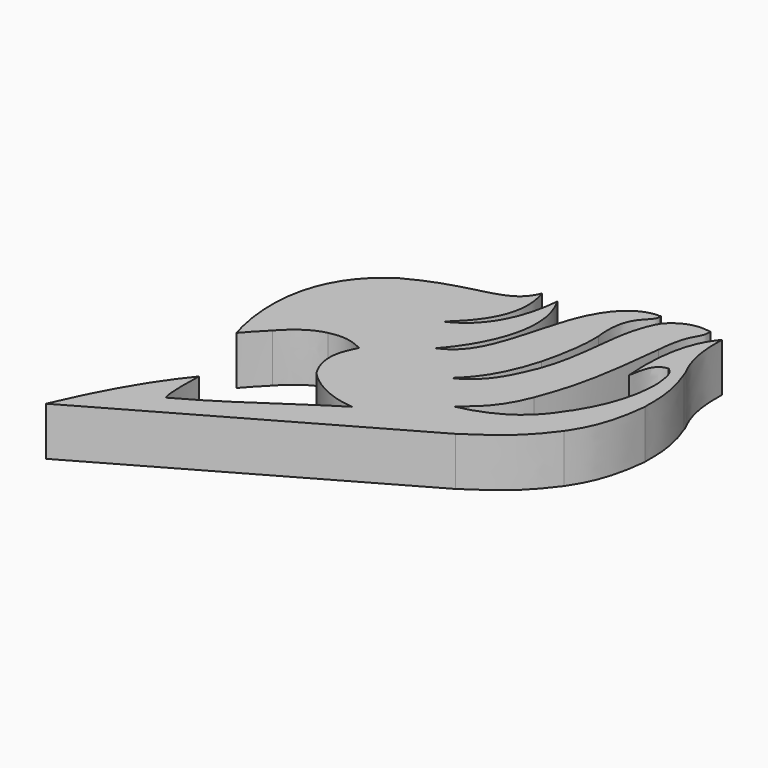
from build123d import *

# Parameters (mm, degrees)
F1_DEPTH = 10


with BuildPart() as f1:
    # F0 (on Top) → F1 (new body)
    with BuildSketch(Plane.XY):
        with BuildLine():
            add(Edge.make_bspline(
                [(58.1812933087, 85.6097638607), (58.1841250991, 85.5931268886), (58.1867527565, 85.5766102474), (58.1891789105, 85.5602109613)],
                knots=[0, 0, 0, 0, 0.0742411452, 0.0742411452, 0.0742411452, 0.0742411452], degree=3))
            add(Edge.make_bspline(
                [(58.18917891, 85.5602109561), (58.2536253791, 85.5619678043), (58.2542100908, 85.5733054697), (58.1812933087, 85.6097638607)],
                knots=[16.3065114736, 16.3065114736, 16.3065114736, 16.3065114736, 17.90581899, 17.90581899, 17.90581899, 17.90581899], degree=3))
        make_face()
    extrude(amount=F1_DEPTH)


with BuildPart() as f1b:
    # F0 (on Top) → F1, piece 2 (new body)
    with BuildSketch(Plane.XY):
        with BuildLine():
            add(Edge.make_bspline(
                [(8.5230357945, 38.3988320827), (8.3760647103, 38.8663448393), (1.192909549, 59.588778764), (17.0468091965, 69.6442350745)],
                knots=[0, 0, 0, 0, 32.3871876075, 32.3871876075, 32.3871876075, 32.3871876075], degree=3))
            add(Edge.make_bspline(
                [(12.5055862591, 42.6780767739), (11.1939450726, 41.3559849064), (9.5115192235, 39.6344363689), (8.5230357945, 38.3988320827)],
                knots=[0, 0, 0, 0, 5.845737193, 5.845737193, 5.845737193, 5.845737193], degree=3))
            add(Edge.make_bspline(
                [(20.0279317796, 47.6346611977), (16.6162457317, 46.8627214432), (14.1450371593, 44.4532930851), (12.5055862591, 42.6780767739)],
                knots=[0, 0, 0, 0, 9.0085188172, 9.0085188172, 9.0085188172, 9.0085188172], degree=3))
            add(Edge.make_bspline(
                [(27.1397791803, 46.655099839), (23.3502890915, 48.7161278725), (20.6937398762, 47.6658642292), (20.0279317796, 47.6346611977)],
                knots=[0, 0, 0, 0, 7.1789911482, 7.1789911482, 7.1789911482, 7.1789911482], degree=3))
            add(Edge.make_bspline(
                [(27.0342063159, 35.9573215246), (23.5974099487, 41.7967438698), (27.1397791803, 45.8742380142), (27.1397791803, 46.655099839)],
                knots=[0, 0, 0, 0, 10.6982992337, 10.6982992337, 10.6982992337, 10.6982992337], degree=3))
            add(Edge.make_bspline(
                [(39.1431711614, 29.9355648458), (31.8141803145, 30.4291844368), (27.242442593, 35.3098213673), (27.0342063159, 35.9573215246)],
                knots=[0, 0, 0, 0, 13.5236305454, 13.5236305454, 13.5236305454, 13.5236305454], degree=3))
            add(Edge.make_bspline(
                [(13.74707371, 13.703007251), (22.9178294539, 18.6291635036), (30.6403562427, 24.683624506), (39.1431711614, 29.9355648458)],
                knots=[0, 0, 0, 0, 30.1406319083, 30.1406319083, 30.1406319083, 30.1406319083], degree=3))
            add(Edge.make_bspline(
                [(13.2888965309, 22.8010956198), (13.0947744474, 17.5788998604), (13.218334876, 14.7370090708), (13.74707371, 13.703007251)],
                knots=[0, 0, 0, 0, 9.1096179005, 9.1096179005, 9.1096179005, 9.1096179005], degree=3))
            add(Edge.make_bspline(
                [(0, 0), (4.6926648356, 10.9066357836), (9.1408407316, 17.7642405033), (13.2888965309, 22.8010956198)],
                knots=[0, 0, 0, 0, 26.390997186, 26.390997186, 26.390997186, 26.390997186], degree=3))
            add(Edge.make_bspline(
                [(57.9938851297, 32.9464413226), (38.6625900865, 21.964294215), (19.3312950432, 10.9821471075), (0, 0)],
                knots=[0, 0, 0, 0, 66.6990157968, 66.6990157968, 66.6990157968, 66.6990157968], degree=3))
            add(Edge.make_bspline(
                [(71.0192099214, 44.6626804769), (65.7932981849, 37.4721288681), (61.5304671228, 35.5569422245), (57.9938851297, 32.9464413226)],
                knots=[0, 0, 0, 0, 17.5193991293, 17.5193991293, 17.5193991293, 17.5193991293], degree=3))
            add(Edge.make_bspline(
                [(75.9282484651, 59.3243427575), (74.9585479498, 49.9088577926), (72.1595361829, 46.5850308537), (71.0192099214, 44.6626804769)],
                knots=[0, 0, 0, 0, 15.4616622733, 15.4616622733, 15.4616622733, 15.4616622733], degree=3))
            add(Edge.make_bspline(
                [(73.7682729959, 72.1533000469), (76.5913054347, 65.0701671839), (75.7166147232, 60.6384053826), (75.9282484651, 59.3243427575)],
                knots=[0, 0, 0, 0, 13.0095210966, 13.0095210966, 13.0095210966, 13.0095210966], degree=3))
            add(Edge.make_bspline(
                [(71.0192099214, 85.3095278144), (70.6434100866, 76.3245373964), (73.7682729959, 73.0007141829), (73.7682729959, 72.1533000469)],
                knots=[0, 0, 0, 0, 13.4403748779, 13.4403748779, 13.4403748779, 13.4403748779], degree=3))
            add(Edge.make_bspline(
                [(67.0265257359, 66.3933604956), (65.9783929586, 79.5900523663), (69.8853433132, 83.8468819857), (71.0192099214, 85.3095278144)],
                knots=[0, 0, 0, 0, 19.3329488966, 19.3329488966, 19.3329488966, 19.3329488966], degree=3))
            add(Edge.make_bspline(
                [(70.5610364676, 72.1533000469), (67.3779025674, 71.8927681446), (67.4945265055, 67.6359385252), (67.0265257359, 66.3933604956)],
                knots=[0, 0, 0, 0, 6.7579338372, 6.7579338372, 6.7579338372, 6.7579338372], degree=3))
            add(Edge.make_bspline(
                [(72.4591985345, 67.2442615032), (72.1012353897, 70.901453495), (71.4597925544, 71.484580636), (70.5610364676, 72.1533000469)],
                knots=[0, 0, 0, 0, 5.2632384191, 5.2632384191, 5.2632384191, 5.2632384191], degree=3))
            add(Edge.make_bspline(
                [(67.6810666919, 51.2080676854), (72.9759261012, 59.530466795), (72.451107204, 66.119812429), (72.4591985345, 67.2442615032)],
                knots=[0, 0, 0, 0, 16.7329033963, 16.7329033963, 16.7329033963, 16.7329033963], degree=3))
            add(Edge.make_bspline(
                [(51.7757683992, 40.2118265629), (64.0540644526, 42.7363924682), (66.5615200996, 50.3170527518), (67.6810666919, 51.2080676854)],
                knots=[0, 0, 0, 0, 19.3363862343, 19.3363862343, 19.3363862343, 19.3363862343], degree=3))
            add(Edge.make_bspline(
                [(59.9251538515, 50.7499016821), (57.4048087001, 44.2045032978), (53.9357513189, 42.0445278287), (51.7757683992, 40.2118265629)],
                knots=[0, 0, 0, 0, 13.3215430964, 13.3215430964, 13.3215430964, 13.3215430964], degree=3))
            add(Edge.make_bspline(
                [(65.1764720678, 76.2328207493), (63.4920150042, 60.1752474904), (62.0520301163, 56.6407367587), (59.9251538515, 50.7499016821)],
                knots=[0, 0, 0, 0, 26.0183686497, 26.0183686497, 26.0183686497, 26.0183686497], degree=3))
            add(Edge.make_bspline(
                [(67.7712410688, 86.3647758961), (68.0737867951, 83.4113657475), (65.8483505249, 84.4586268067), (65.1764720678, 76.2328207493)],
                knots=[0, 0, 0, 0, 10.4589359528, 10.4589359528, 10.4589359528, 10.4589359528], degree=3))
            add(Edge.make_bspline(
                [(59.9251538515, 83.7700068951), (63.3611083031, 87.3385965824), (66.6992515326, 86.4877030253), (67.7712410688, 86.3647758961)],
                knots=[0, 0, 0, 0, 8.2640129955, 8.2640129955, 8.2640129955, 8.2640129955], degree=3))
            add(Edge.make_bspline(
                [(54.2313084006, 59.0591914952), (57.7320754528, 68.4224367142), (55.8339133859, 76.9968926907), (59.9251538515, 83.7700068951)],
                knots=[0, 0, 0, 0, 25.3583176442, 25.3583176442, 25.3583176442, 25.3583176442], degree=3))
            add(Edge.make_bspline(
                [(45.1192297041, 47.5898385048), (50.8594214916, 50.2262599766), (52.6266731322, 55.4625689983), (54.2313084006, 59.0591914952)],
                knots=[0, 0, 0, 0, 14.6484141186, 14.6484141186, 14.6484141186, 14.6484141186], degree=3))
            add(Edge.make_bspline(
                [(53.0497655272, 61.2933374941), (50.6006330252, 52.6047423482), (47.0435544848, 49.3392273784), (45.1192297041, 47.5898385048)],
                knots=[0, 0, 0, 0, 15.8328545434, 15.8328545434, 15.8328545434, 15.8328545434], degree=3))
            add(Edge.make_bspline(
                [(54.7181718917, 73.8801862118), (54.9157783389, 69.5737600327), (53.924459964, 64.792111516), (53.0497655272, 61.2933374941)],
                knots=[0, 0, 0, 0, 12.6969421688, 12.6969421688, 12.6969421688, 12.6969421688], degree=3))
            add(Edge.make_bspline(
                [(58.1891789105, 85.5602109613), (58.5864258891, 82.875069452), (53.5815226929, 83.3361278309), (54.7181718917, 73.8801862118)],
                knots=[0.0742411452, 0.0742411452, 0.0742411452, 0.0742411452, 12.2301349858, 12.2301349858, 12.2301349858, 12.2301349858], degree=3))
            add(Edge.make_bspline(
                [(46.5187430382, 72.0228850842), (50.2360443913, 86.5203885195), (57.5320838377, 85.542298162), (58.18917891, 85.5602109561)],
                knots=[0, 0, 0, 0, 16.3065114736, 16.3065114736, 16.3065114736, 16.3065114736], degree=3))
            add(Edge.make_bspline(
                [(36.7442097465, 54.1963754503), (42.525184556, 56.4760852712), (43.8662123039, 62.6813942342), (46.5187430382, 72.0228850842)],
                knots=[0.2281459231, 0.2281459231, 0.2281459231, 0.2281459231, 20.491775236, 20.491775236, 20.491775236, 20.491775236], degree=3))
            add(Edge.make_bspline(
                [(41.979894042, 79.2211890221), (48.5770784859, 67.9632438107), (38.4334059964, 55.7515616584), (36.7442097465, 54.1963754503)],
                knots=[0, 0, 0, 0, 22.9072254799, 22.9072254799, 22.9072254799, 22.9072254799], degree=3))
            add(Edge.make_bspline(
                [(32.1521687688, 62.3412363997), (33.0705456357, 62.7932086076), (40.7698605571, 65.6684161963), (41.979894042, 79.2211890221)],
                knots=[2.0426097474, 2.0426097474, 2.0426097474, 2.0426097474, 19.6072770162, 19.6072770162, 19.6072770162, 19.6072770162], degree=3))
            add(Edge.make_bspline(
                [(38.2922179997, 79.8816606402), (41.818916673, 69.622180824), (32.6877412687, 63.3053088898), (32.1521687688, 62.3412363997)],
                knots=[0, 0, 0, 0, 18.1162174826, 18.1162174826, 18.1162174826, 18.1162174826], degree=3))
            add(Edge.make_bspline(
                [(17.0468091965, 69.6442350745), (28.495112434, 75.9187862277), (35.7603803277, 73.2768699527), (38.2922179997, 79.8816606402)],
                knots=[0, 0, 0, 0, 23.5833050574, 23.5833050574, 23.5833050574, 23.5833050574], degree=3))
        make_face()
        with BuildLine():
            add(Edge.make_bspline(
                [(36.5472510457, 54.1208684444), (36.6134722373, 54.1455390763), (36.6791224014, 54.1707084538), (36.7442097465, 54.1963754503)],
                knots=[0, 0, 0, 0, 0.2281459231, 0.2281459231, 0.2281459231, 0.2281459231], degree=3))
            add(Edge.make_bspline(
                [(36.7442097465, 54.1963754503), (36.5396322565, 54.0080278317), (36.4590606191, 53.9759841434), (36.5472510457, 54.1208684444)],
                knots=[22.9072254799, 22.9072254799, 22.9072254799, 22.9072254799, 25.6815050771, 25.6815050771, 25.6815050771, 25.6815050771], degree=3))
        make_face(mode=Mode.SUBTRACT)
        with BuildLine():
            add(Edge.make_bspline(
                [(32.1277491748, 62.2688867152), (32.0302735557, 62.2688867152), (32.0453699601, 62.2886761762), (32.1521687688, 62.3412363997)],
                knots=[0, 0, 0, 0, 2.0426097474, 2.0426097474, 2.0426097474, 2.0426097474], degree=3))
            add(Edge.make_bspline(
                [(32.1521687688, 62.3412363997), (32.1360810553, 62.3122772539), (32.1277491748, 62.288147952), (32.1277491748, 62.2688867152)],
                knots=[18.1162174826, 18.1162174826, 18.1162174826, 18.1162174826, 18.6603987425, 18.6603987425, 18.6603987425, 18.6603987425], degree=3))
        make_face(mode=Mode.SUBTRACT)
        with BuildLine():
            add(Edge.make_bspline(
                [(36.7442097465, 54.1963754503), (36.5396322565, 54.0080278317), (36.4590606191, 53.9759841434), (36.5472510457, 54.1208684444)],
                knots=[22.9072254799, 22.9072254799, 22.9072254799, 22.9072254799, 25.6815050771, 25.6815050771, 25.6815050771, 25.6815050771], degree=3))
            add(Edge.make_bspline(
                [(36.5472510457, 54.1208684444), (36.6134722373, 54.1455390763), (36.6791224014, 54.1707084538), (36.7442097465, 54.1963754503)],
                knots=[0, 0, 0, 0, 0.2281459231, 0.2281459231, 0.2281459231, 0.2281459231], degree=3))
        make_face()
        with BuildLine():
            add(Edge.make_bspline(
                [(32.1521687688, 62.3412363997), (32.1360810553, 62.3122772539), (32.1277491748, 62.288147952), (32.1277491748, 62.2688867152)],
                knots=[18.1162174826, 18.1162174826, 18.1162174826, 18.1162174826, 18.6603987425, 18.6603987425, 18.6603987425, 18.6603987425], degree=3))
            add(Edge.make_bspline(
                [(32.1277491748, 62.2688867152), (32.0302735557, 62.2688867152), (32.0453699601, 62.2886761762), (32.1521687688, 62.3412363997)],
                knots=[0, 0, 0, 0, 2.0426097474, 2.0426097474, 2.0426097474, 2.0426097474], degree=3))
        make_face()
    extrude(amount=F1_DEPTH)


solid = Compound([f1.part, f1b.part])
